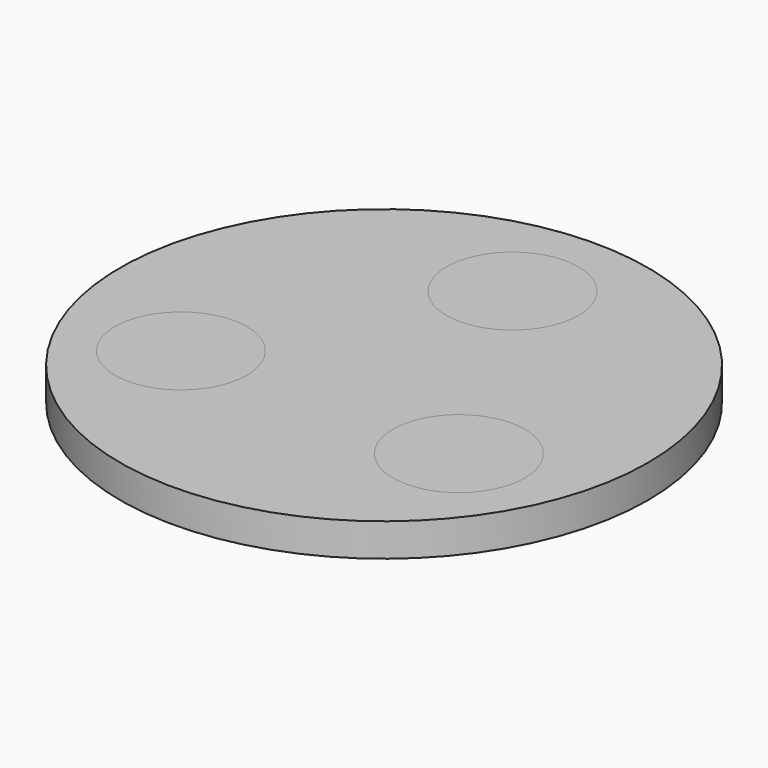
from build123d import *

# Parameters (mm, degrees)
F0_R     = 25.4
F1_DEPTH = 3.175
F2_R     = 6.35
F3_DEPTH = 3.175


with BuildPart() as f1:
    # F0 (on Top) → F1 (new body)
    with BuildSketch(Plane.XY):
        Circle(F0_R)
    extrude(amount=F1_DEPTH)


with BuildPart() as f3:
    # F2 (on Top) → F3 (new body, through all)
    with BuildSketch(Plane.XY):
        with Locations((0, 15.446283)):
            Circle(F2_R)
        with Locations((-13.376873, -7.723141)):
            Circle(F2_R)
        with Locations((13.376873, -7.723141)):
            Circle(F2_R)
    extrude(amount=F3_DEPTH)


solid = Compound([f1.part, f3.part])
